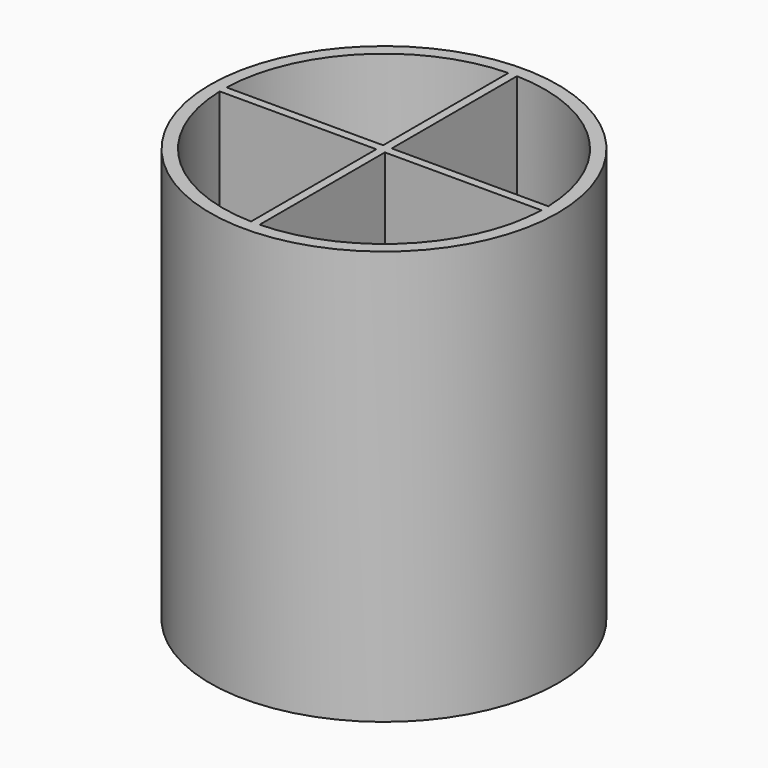
from build123d import *

# Parameters (mm, degrees)
F1_DEPTH = 4
F0_R     = 40.5
F2_DEPTH = 96.5


with BuildPart() as f1:
    # F0 (on Top) → F1 (new body)
    with BuildSketch(Plane.XY):
        with BuildLine():
            Line((-1, -1), (-37.486664, -1))
            ThreePointArc((-37.486664, -1), (-26.516504, -26.516504), (-1, -37.486664))
            Line((-1, -37.486664), (-1, -1))
        make_face()
        with BuildLine():
            ThreePointArc((-1, 37.486664), (-26.516504, 26.516504), (-37.486664, 1))
            Line((-37.486664, 1), (-1, 1))
            Line((-1, 1), (-1, 37.486664))
        make_face()
        with BuildLine():
            ThreePointArc((37.486664, 1), (26.516504, 26.516504), (1, 37.486664))
            Line((1, 37.486664), (1, 1))
            Line((1, 1), (37.486664, 1))
        make_face()
        with BuildLine():
            Line((37.486664, -1), (1, -1))
            Line((1, -1), (1, -37.486664))
            ThreePointArc((1, -37.486664), (26.516504, -26.516504), (37.486664, -1))
        make_face()
    extrude(amount=F1_DEPTH)


with BuildPart() as f2:
    # F0 (on Top) → F2 (new body)
    with BuildSketch(Plane.XY):
        Circle(F0_R)
        with BuildLine():
            ThreePointArc((-1, -37.486664), (-26.516504, -26.516504), (-37.486664, -1))
            Line((-37.486664, -1), (-1, -1))
            Line((-1, -1), (-1, -37.486664))
        make_face(mode=Mode.SUBTRACT)
        with BuildLine():
            Line((1, -37.486664), (1, -1))
            Line((1, -1), (37.486664, -1))
            ThreePointArc((37.486664, -1), (26.516504, -26.516504), (1, -37.486664))
        make_face(mode=Mode.SUBTRACT)
        with BuildLine():
            Line((-1, 1), (-37.486664, 1))
            ThreePointArc((-37.486664, 1), (-26.516504, 26.516504), (-1, 37.486664))
            Line((-1, 37.486664), (-1, 1))
        make_face(mode=Mode.SUBTRACT)
        with BuildLine():
            Line((1, 1), (1, 37.486664))
            ThreePointArc((1, 37.486664), (26.516504, 26.516504), (37.486664, 1))
            Line((37.486664, 1), (1, 1))
        make_face(mode=Mode.SUBTRACT)
    extrude(amount=F2_DEPTH)


solid = Compound([f1.part, f2.part])
